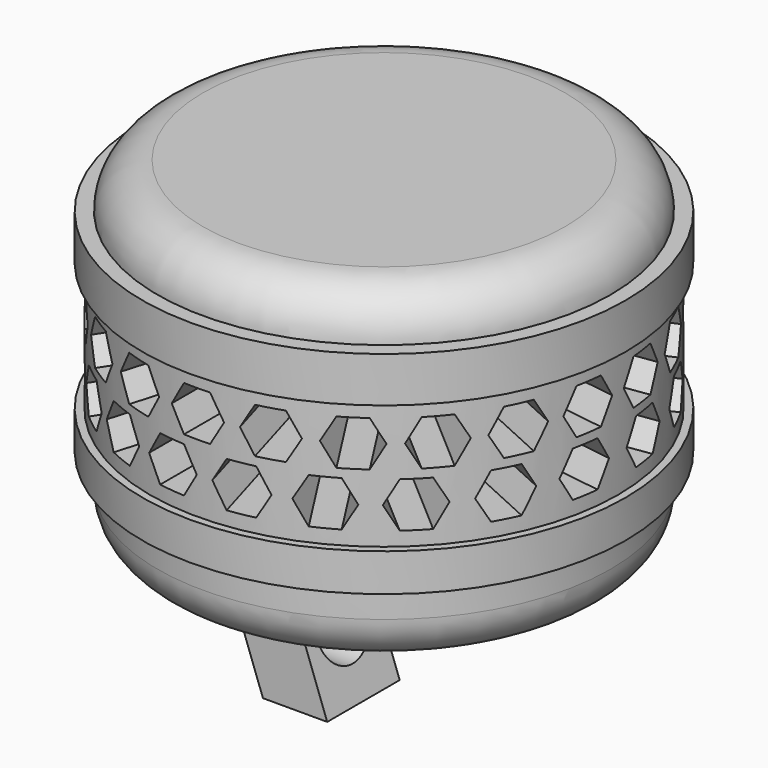
from build123d import *

# Parameters (mm, degrees)
F0_R           = 75
F1_DEPTH       = 110
F2_R           = 15
F0_R_2         = 80
F0_R_3         = 77.5
F3_DEPTH       = 95
F4_DEPTH       = 80
F5_DEPTH       = 37.5
F6_DEPTH       = 25
F8_DEPTH       = 120
F8_DEPTH_BACK  = 120
F10_COUNT      = 11
F12_COUNT      = 11
F14_R          = 10
F15_DEPTH      = 61.6
F17_DEPTH      = 15
F17_DEPTH_BACK = 15
F18_R          = 10.25
F19_DEPTH      = 110.6


with BuildPart() as f1:
    # F0 (on Top) → F1 (new body)
    with BuildSketch(Plane.XY):
        Circle(F0_R)
    extrude(amount=F1_DEPTH)

    # F2
    f2_edges = [f1.edges().sort_by_distance(p)[0] for p in [
        (-75, 0, 110),
        (-75, 0, 0),
    ]]
    fillet(f2_edges, radius=F2_R)

    # F0 (on Top) → F3 (join)
    with BuildSketch(Plane.XY):
        Circle(F0_R_2)
        Circle(F0_R_3, mode=Mode.SUBTRACT)
        Circle(F0_R_3)
        Circle(F0_R, mode=Mode.SUBTRACT)
    extrude(amount=F3_DEPTH)

    # F0 (on Top) → F4 (cut)
    with BuildSketch(Plane.XY):
        Circle(F0_R_2)
        Circle(F0_R_3, mode=Mode.SUBTRACT)
    extrude(amount=F4_DEPTH, mode=Mode.SUBTRACT)

    # F0 (on Top) → F5 (join)
    with BuildSketch(Plane.XY):
        Circle(F0_R_2)
        Circle(F0_R_3, mode=Mode.SUBTRACT)
    extrude(amount=F5_DEPTH)

    # F0 (on Top) → F6 (cut)
    with BuildSketch(Plane.XY):
        Circle(F0_R_2)
        Circle(F0_R_3, mode=Mode.SUBTRACT)
        Circle(F0_R_3)
        Circle(F0_R, mode=Mode.SUBTRACT)
    extrude(amount=F6_DEPTH, mode=Mode.SUBTRACT)


with BuildPart() as f8:
    # F7 (on Front) → F8 (new body, two sides)
    with BuildSketch(Plane.XZ) as f8_sk:
        Polygon((8.6602540378, 67.5), (4.3301270189, 75), (-4.3301270189, 75), (-8.6602540378, 67.5), (-4.3301270189, 60), (4.3301270189, 60), align=None)
    extrude(amount=-F8_DEPTH)
    extrude(f8_sk.sketch, amount=F8_DEPTH_BACK)


with BuildPart() as f8b:
    # F7 (on Front) → F8, piece 2 (new body, two sides)
    with BuildSketch(Plane.XZ) as f8_2_sk:
        Polygon((-4.3301270189, 57.1490635787), (-8.6602540378, 57.1490635787), (-12.9903810568, 57.1490635787), (-17.3205080757, 49.6490635787), (-12.9903810568, 42.1490635787), (-4.3301270189, 42.1490635787), (0, 49.6490635787), align=None)
    extrude(amount=-F8_DEPTH)
    extrude(f8_2_sk.sketch, amount=F8_DEPTH_BACK)


with BuildPart() as f10_1:
    # F10: instance of F8
    add(f8.part.rotate(Axis((0, 0, 37.4991707504), (0, 0, 1)), 1 * 360 / F10_COUNT))


with BuildPart() as f10_2:
    # F10: instance of F8
    add(f8.part.rotate(Axis((0, 0, 37.4991707504), (0, 0, 1)), 2 * 360 / F10_COUNT))


with BuildPart() as f10_3:
    # F10: instance of F8
    add(f8.part.rotate(Axis((0, 0, 37.4991707504), (0, 0, 1)), 3 * 360 / F10_COUNT))


with BuildPart() as f10_4:
    # F10: instance of F8
    add(f8.part.rotate(Axis((0, 0, 37.4991707504), (0, 0, 1)), 4 * 360 / F10_COUNT))


with BuildPart() as f10_5:
    # F10: instance of F8
    add(f8.part.rotate(Axis((0, 0, 37.4991707504), (0, 0, 1)), 5 * 360 / F10_COUNT))


with BuildPart() as f10_6:
    # F10: instance of F8
    add(f8.part.rotate(Axis((0, 0, 37.4991707504), (0, 0, 1)), 6 * 360 / F10_COUNT))


with BuildPart() as f10_7:
    # F10: instance of F8
    add(f8.part.rotate(Axis((0, 0, 37.4991707504), (0, 0, 1)), 7 * 360 / F10_COUNT))


with BuildPart() as f10_8:
    # F10: instance of F8
    add(f8.part.rotate(Axis((0, 0, 37.4991707504), (0, 0, 1)), 8 * 360 / F10_COUNT))


with BuildPart() as f10_9:
    # F10: instance of F8
    add(f8.part.rotate(Axis((0, 0, 37.4991707504), (0, 0, 1)), 9 * 360 / F10_COUNT))


with BuildPart() as f10_10:
    # F10: instance of F8
    add(f8.part.rotate(Axis((0, 0, 37.4991707504), (0, 0, 1)), 10 * 360 / F10_COUNT))


with BuildPart() as f12_1:
    # F12: instance of F8b
    add(f8b.part.rotate(Axis((-8.6602540378, 0, 24.7237410927), (0, 0, 1)), 1 * 360 / F12_COUNT))


with BuildPart() as f12_2:
    # F12: instance of F8b
    add(f8b.part.rotate(Axis((-8.6602540378, 0, 24.7237410927), (0, 0, 1)), 2 * 360 / F12_COUNT))


with BuildPart() as f12_3:
    # F12: instance of F8b
    add(f8b.part.rotate(Axis((-8.6602540378, 0, 24.7237410927), (0, 0, 1)), 3 * 360 / F12_COUNT))


with BuildPart() as f12_4:
    # F12: instance of F8b
    add(f8b.part.rotate(Axis((-8.6602540378, 0, 24.7237410927), (0, 0, 1)), 4 * 360 / F12_COUNT))


with BuildPart() as f12_5:
    # F12: instance of F8b
    add(f8b.part.rotate(Axis((-8.6602540378, 0, 24.7237410927), (0, 0, 1)), 5 * 360 / F12_COUNT))


with BuildPart() as f12_6:
    # F12: instance of F8b
    add(f8b.part.rotate(Axis((-8.6602540378, 0, 24.7237410927), (0, 0, 1)), 6 * 360 / F12_COUNT))


with BuildPart() as f12_7:
    # F12: instance of F8b
    add(f8b.part.rotate(Axis((-8.6602540378, 0, 24.7237410927), (0, 0, 1)), 7 * 360 / F12_COUNT))


with BuildPart() as f12_8:
    # F12: instance of F8b
    add(f8b.part.rotate(Axis((-8.6602540378, 0, 24.7237410927), (0, 0, 1)), 8 * 360 / F12_COUNT))


with BuildPart() as f12_9:
    # F12: instance of F8b
    add(f8b.part.rotate(Axis((-8.6602540378, 0, 24.7237410927), (0, 0, 1)), 9 * 360 / F12_COUNT))


with BuildPart() as f12_10:
    # F12: instance of F8b
    add(f8b.part.rotate(Axis((-8.6602540378, 0, 24.7237410927), (0, 0, 1)), 10 * 360 / F12_COUNT))


with BuildPart() as f1_1:
    add(f1.part)

    # F13: cut F8, F10_5, F10_6, F10_1, F10_7, F10_2, F10_8, F10_3, F10_9, F10_4, F10_10, F12_6, F12_1, F12_5, F12_10, F12_4, F12_9, F12_3, F12_8, F12_2, F12_7, F8b
    add(f8.part, mode=Mode.SUBTRACT)
    add(f10_5.part, mode=Mode.SUBTRACT)
    add(f10_6.part, mode=Mode.SUBTRACT)
    add(f10_1.part, mode=Mode.SUBTRACT)
    add(f10_7.part, mode=Mode.SUBTRACT)
    add(f10_2.part, mode=Mode.SUBTRACT)
    add(f10_8.part, mode=Mode.SUBTRACT)
    add(f10_3.part, mode=Mode.SUBTRACT)
    add(f10_9.part, mode=Mode.SUBTRACT)
    add(f10_4.part, mode=Mode.SUBTRACT)
    add(f10_10.part, mode=Mode.SUBTRACT)
    add(f12_6.part, mode=Mode.SUBTRACT)
    add(f12_1.part, mode=Mode.SUBTRACT)
    add(f12_5.part, mode=Mode.SUBTRACT)
    add(f12_10.part, mode=Mode.SUBTRACT)
    add(f12_4.part, mode=Mode.SUBTRACT)
    add(f12_9.part, mode=Mode.SUBTRACT)
    add(f12_3.part, mode=Mode.SUBTRACT)
    add(f12_8.part, mode=Mode.SUBTRACT)
    add(f12_2.part, mode=Mode.SUBTRACT)
    add(f12_7.part, mode=Mode.SUBTRACT)
    add(f8b.part, mode=Mode.SUBTRACT)

    # F14 (on face) → F15 (cut)
    with BuildSketch(Plane.XY):
        Circle(F14_R)
    extrude(amount=F15_DEPTH, mode=Mode.SUBTRACT)

    # F16 (on Front) → F17 (join, two sides)
    with BuildSketch(Plane.XZ) as f17_sk:
        Polygon((-25, -50), (-6.8014882867, -50), (-25, 0), align=None)
        Polygon((-28.0850437362, -50), (-25, -50), (-25, 0), (-46.2835554495, 0), align=None)
    extrude(amount=F17_DEPTH)
    extrude(f17_sk.sketch, amount=-F17_DEPTH_BACK)

    # F18 (on Right) → F19 (cut)
    with BuildSketch(Plane.YZ):
        with Locations((0, -30)):
            Circle(F18_R)
    extrude(amount=-F19_DEPTH, mode=Mode.SUBTRACT)


solid = f1_1.part
